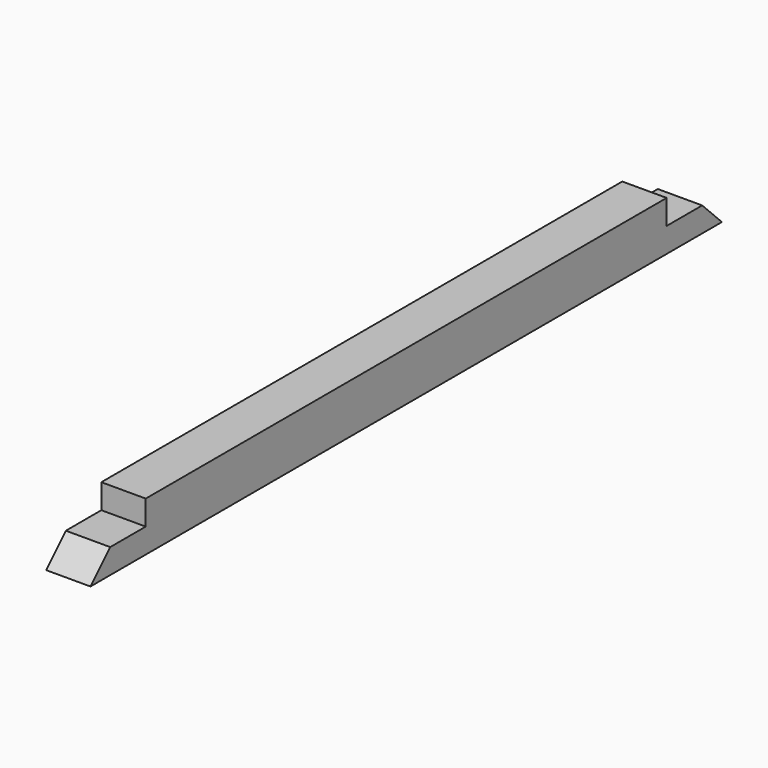
from build123d import *

# Parameters (mm, degrees)
F0_W      = 45
F0_H      = 25
F1_DEPTH  = 800
F3_DEPTH  = 45
F5_DEPTH  = 45
F6_W      = 45
F6_H      = 25
F7_DEPTH  = 800
F9_DEPTH  = 45
F11_DEPTH = 45


with BuildPart() as f1:
    # F0 (on Front) → F1 (new body)
    with BuildSketch(Plane.XZ):
        Rectangle(F0_W, F0_H)
    extrude(amount=-F1_DEPTH)

    # F2 (on face) → F3 (cut)
    with BuildSketch(Plane.YZ.offset(22.5)):
        Polygon((0, 12.5), (0, -12.5), (25, 12.5), align=None)
    extrude(amount=-F3_DEPTH, mode=Mode.SUBTRACT)

    # F4 (on face) → F5 (cut)
    with BuildSketch(Plane(origin=(-22.5, 0, 0), x_dir=(0, -1, 0), z_dir=(-1, 0, 0))):
        Polygon((-800, 12.5), (-800, -12.5), (-775, 12.5), align=None)
    extrude(amount=-F5_DEPTH, mode=Mode.SUBTRACT)

    # F6 (on Front) → F7 (join)
    with BuildSketch(Plane.XZ):
        with Locations((0, 25)):
            Rectangle(F6_W, F6_H)
    extrude(amount=-F7_DEPTH)

    # F8 (on face) → F9 (cut)
    with BuildSketch(Plane(origin=(-22.5, 0, 0), x_dir=(0, -1, 0), z_dir=(-1, 0, 0))):
        Polygon((-730, 37.5), (-800, 37.5), (-800, 12.5), (-775, 12.5), (-730, 12.5), align=None)
    extrude(amount=-F9_DEPTH, mode=Mode.SUBTRACT)

    # F10 (on face) → F11 (cut)
    with BuildSketch(Plane(origin=(-22.5, 0, 0), x_dir=(0, -1, 0), z_dir=(-1, 0, 0))):
        Polygon((0, 12.5), (0, 37.5), (-70, 37.5), (-70, 12.5), (-25, 12.5), align=None)
    extrude(amount=-F11_DEPTH, mode=Mode.SUBTRACT)


solid = f1.part
